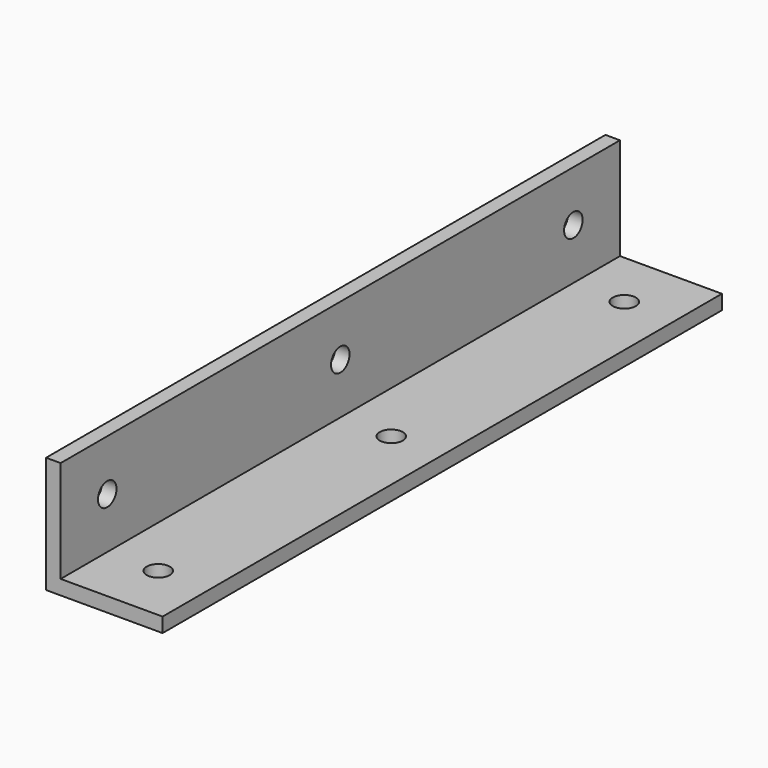
from build123d import *

# Parameters (mm, degrees)
F1_DEPTH       = 304.8
F4_D           = 10.0838
F4_DEPTH       = 20.6502
F4_TIP         = 3.0294791551
F4_ON_F2_D     = 10.0838
F4_ON_F2_DEPTH = 20.6502
F4_ON_F2_TIP   = 3.0294791551


with BuildPart() as f1:
    # F0 (on Front) → F1 (new body)
    with BuildSketch(Plane.XZ):
        Polygon((0, 50.8), (0, 0), (50.8, 0), (50.8, 6.35), (6.35, 6.35), (6.35, 50.8), align=None)
    extrude(amount=F1_DEPTH)

    # F4
    with Locations(Plane.XY.offset(6.35)):
        with Locations((28.575, -152.4), (28.575, -25.4), (28.575, -279.4)):
            Hole(F4_D / 2, depth=F4_DEPTH)
            with Locations((0, 0, -(F4_DEPTH + F4_TIP / 2))):  # 118° drill point
                Cone(0, F4_D / 2, F4_TIP, mode=Mode.SUBTRACT)

    # F4 on F2
    with Locations(Plane.YZ.offset(6.35)):
        with Locations((-279.4, 28.575), (-152.4, 28.575), (-25.4, 28.575)):
            Hole(F4_ON_F2_D / 2, depth=F4_ON_F2_DEPTH)
            with Locations((0, 0, -(F4_ON_F2_DEPTH + F4_ON_F2_TIP / 2))):  # 118° drill point
                Cone(0, F4_ON_F2_D / 2, F4_ON_F2_TIP, mode=Mode.SUBTRACT)


solid = f1.part
